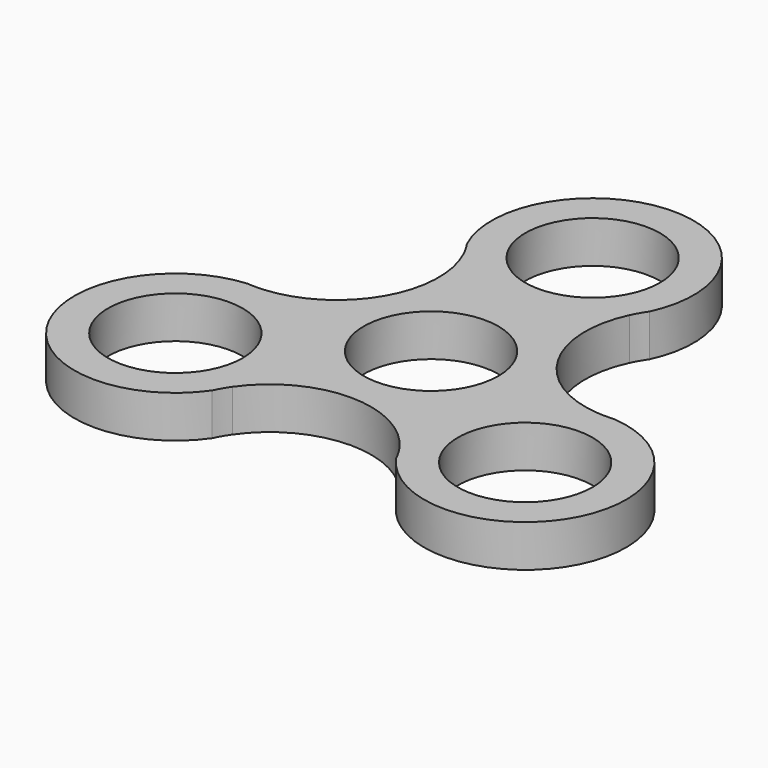
from build123d import *

# Parameters (mm, degrees)
F0_R     = 10.16
F1_DEPTH = 6.35


with BuildPart() as f1:
    # F0 (on Top) → F1 (new body)
    with BuildSketch(Plane.XY):
        with BuildLine():
            ThreePointArc((25.123501, -0.053256), (13.106305, 7.566929), (12.515629, 21.784218))
            ThreePointArc((12.515629, 21.784218), (13.106305, 22.913071), (13.788583, 23.989038))
            ThreePointArc((13.788583, 23.989038), (0, 45.72), (-13.788583, 23.989038))
            ThreePointArc((-13.788583, 23.989038), (-13.106305, 22.913071), (-12.515629, 21.784218))
            ThreePointArc((-12.515629, 21.784218), (-11.063539, 14.602974), (-13.106305, 7.566929))
            ThreePointArc((-13.106305, 7.566929), (-18.178316, 2.279819), (-25.123501, -0.053256))
            ThreePointArc((-25.123501, -0.053256), (-26.396454, -0.106143), (-27.669408, -0.053256))
            ThreePointArc((-27.669408, -0.053256), (-39.594681, -22.86), (-13.880825, -23.935782))
            ThreePointArc((-13.880825, -23.935782), (-13.290149, -22.806929), (-12.607872, -21.730962))
            ThreePointArc((-12.607872, -21.730962), (0, -15.133857), (12.607872, -21.730962))
            ThreePointArc((12.607872, -21.730962), (13.290149, -22.806929), (13.880825, -23.935782))
            ThreePointArc((13.880825, -23.935782), (39.594681, -22.86), (27.669408, -0.053256))
            ThreePointArc((27.669408, -0.053256), (26.396454, -0.106143), (25.123501, -0.053256))
        make_face()
        with Locations((-26.396454, -15.24)):
            Circle(F0_R, mode=Mode.SUBTRACT)
        with Locations((26.396454, -15.24)):
            Circle(F0_R, mode=Mode.SUBTRACT)
        Circle(F0_R, mode=Mode.SUBTRACT)
        with Locations((0, 30.48)):
            Circle(F0_R, mode=Mode.SUBTRACT)
    extrude(amount=F1_DEPTH)


solid = f1.part
